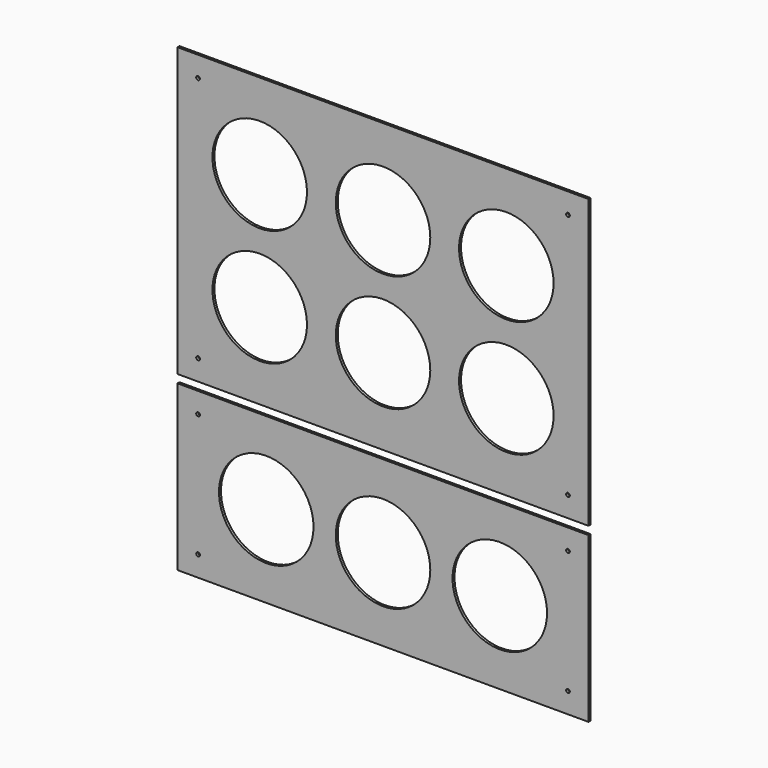
from build123d import *

# Parameters (mm, degrees)
F0_W       = 500
F0_H       = 200
F0_R       = 57.5
F1_DEPTH   = 3
F0_H_2     = 350
F2_D       = 4.5
F2_DEPTH   = 16.5
F2_TIP     = 1.3519363928
F2_2_D     = 4.5
F2_2_DEPTH = 16.5
F2_2_TIP   = 1.3519363928


with BuildPart() as f1:
    # F0 (on Front) → F1 (new body)
    with BuildSketch(Plane.XZ):
        with Locations((0, -150)):
            Rectangle(F0_W, F0_H)
        with Locations((-142.0560575161, -150)):
            Circle(F0_R, mode=Mode.SUBTRACT)
        with Locations((0, -150)):
            Circle(F0_R, mode=Mode.SUBTRACT)
        with Locations((142.0560575161, -150)):
            Circle(F0_R, mode=Mode.SUBTRACT)
    extrude(amount=F1_DEPTH)

    # F2
    with Locations(Plane(origin=(0, 0, 0), x_dir=(1, 0, 0), z_dir=(0, 1, 0))):
        with Locations((225, -285), (225, 15), (-225, 15), (-225, -285), (-225, 225), (-225, 75), (225, 75), (225, 225)):
            Hole(F2_D / 2, depth=F2_DEPTH)
            with Locations((0, 0, -(F2_DEPTH + F2_TIP / 2))):  # 118° drill point
                Cone(0, F2_D / 2, F2_TIP, mode=Mode.SUBTRACT)


with BuildPart() as f1b:
    # F0 (on Front) → F1, piece 2 (new body)
    with BuildSketch(Plane.XZ):
        with Locations((0, 135)):
            Rectangle(F0_W, F0_H_2)
        with Locations((-150, 63.971966333)):
            Circle(F0_R, mode=Mode.SUBTRACT)
        with Locations((-150, 206.028033667)):
            Circle(F0_R, mode=Mode.SUBTRACT)
        with Locations((0, 63.971966333)):
            Circle(F0_R, mode=Mode.SUBTRACT)
        with Locations((150, 63.971966333)):
            Circle(F0_R, mode=Mode.SUBTRACT)
        with Locations((0, 206.028033667)):
            Circle(F0_R, mode=Mode.SUBTRACT)
        with Locations((150, 206.028033667)):
            Circle(F0_R, mode=Mode.SUBTRACT)
        with Locations((0, 135)):
            Rectangle(F0_W, F0_H_2)
        with Locations((-150, 63.971966333)):
            Circle(F0_R, mode=Mode.SUBTRACT)
        with Locations((-150, 206.028033667)):
            Circle(F0_R, mode=Mode.SUBTRACT)
        with Locations((0, 63.971966333)):
            Circle(F0_R, mode=Mode.SUBTRACT)
        with Locations((150, 63.971966333)):
            Circle(F0_R, mode=Mode.SUBTRACT)
        with Locations((0, 206.028033667)):
            Circle(F0_R, mode=Mode.SUBTRACT)
        with Locations((150, 206.028033667)):
            Circle(F0_R, mode=Mode.SUBTRACT)
        with Locations((0, 135)):
            Rectangle(F0_W, F0_H_2)
        with Locations((-150, 63.971966333)):
            Circle(F0_R, mode=Mode.SUBTRACT)
        with Locations((-150, 206.028033667)):
            Circle(F0_R, mode=Mode.SUBTRACT)
        with Locations((0, 63.971966333)):
            Circle(F0_R, mode=Mode.SUBTRACT)
        with Locations((150, 63.971966333)):
            Circle(F0_R, mode=Mode.SUBTRACT)
        with Locations((0, 206.028033667)):
            Circle(F0_R, mode=Mode.SUBTRACT)
        with Locations((150, 206.028033667)):
            Circle(F0_R, mode=Mode.SUBTRACT)
    extrude(amount=F1_DEPTH)

    # F2#2
    with Locations(Plane(origin=(0, 0, 0), x_dir=(1, 0, 0), z_dir=(0, 1, 0))):
        with Locations((225, -285), (225, 15), (-225, 15), (-225, -285), (-225, 225), (-225, 75), (225, 75), (225, 225)):
            Hole(F2_2_D / 2, depth=F2_2_DEPTH)
            with Locations((0, 0, -(F2_2_DEPTH + F2_2_TIP / 2))):  # 118° drill point
                Cone(0, F2_2_D / 2, F2_2_TIP, mode=Mode.SUBTRACT)


solid = Compound([f1.part, f1b.part])
